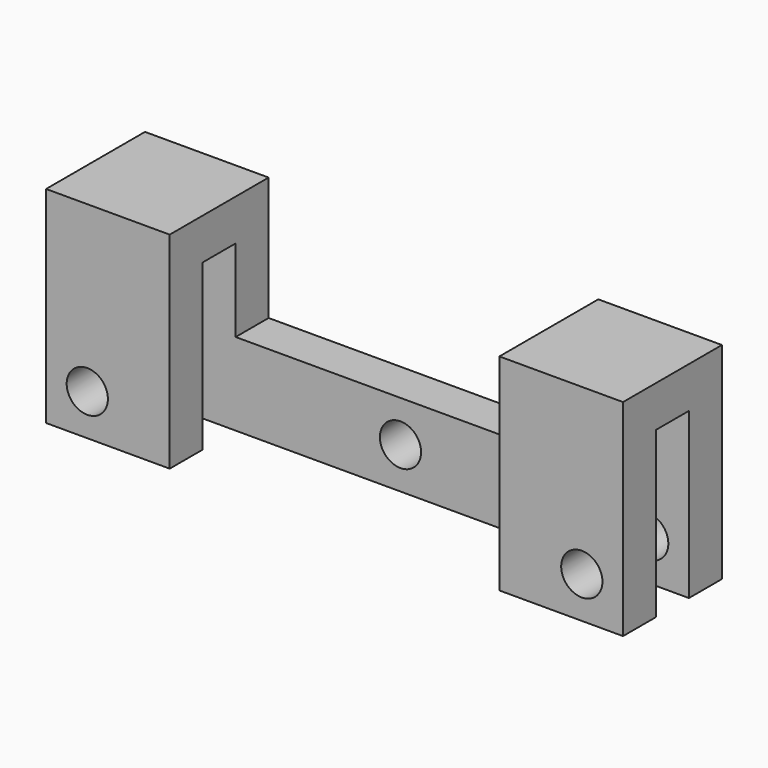
from build123d import *

# Parameters (mm, degrees)
F0_R     = 2
F1_DEPTH = 4
F2_W     = 12
F2_H     = 4
F3_DEPTH = 4
F4_W     = 12
F4_H     = 20
F4_R     = 2
F5_DEPTH = 4


with BuildPart() as f1:
    # F0 (on Front) → F1 (new body)
    with BuildSketch(Plane.XZ):
        Polygon((-28, -4), (28, -4), (28, 4), (28, 16), (16, 16), (16, 4), (-16, 4), (-16, 16), (-28, 16), (-28, 4), align=None)
        with Locations((-24, 0)):
            Circle(F0_R, mode=Mode.SUBTRACT)
        Circle(F0_R, mode=Mode.SUBTRACT)
        with Locations((24, 0)):
            Circle(F0_R, mode=Mode.SUBTRACT)
    extrude(amount=-F1_DEPTH)

    # F2 (on face) → F3 (join)
    with BuildSketch(Plane.XZ):
        with Locations((22, 14)):
            Rectangle(F2_W, F2_H)
        with Locations((-22, 14)):
            Rectangle(F2_W, F2_H)
    extrude(amount=F3_DEPTH)

    # F4 (on face) → F5 (join)
    with BuildSketch(Plane.XZ.offset(4)):
        with Locations((22, 6)):
            Rectangle(F4_W, F4_H)
        with Locations((24, 0)):
            Circle(F4_R, mode=Mode.SUBTRACT)
        with Locations((-22, 6)):
            Rectangle(F4_W, F4_H)
        with Locations((-24, 0)):
            Circle(F4_R, mode=Mode.SUBTRACT)
    extrude(amount=F5_DEPTH)


solid = f1.part
